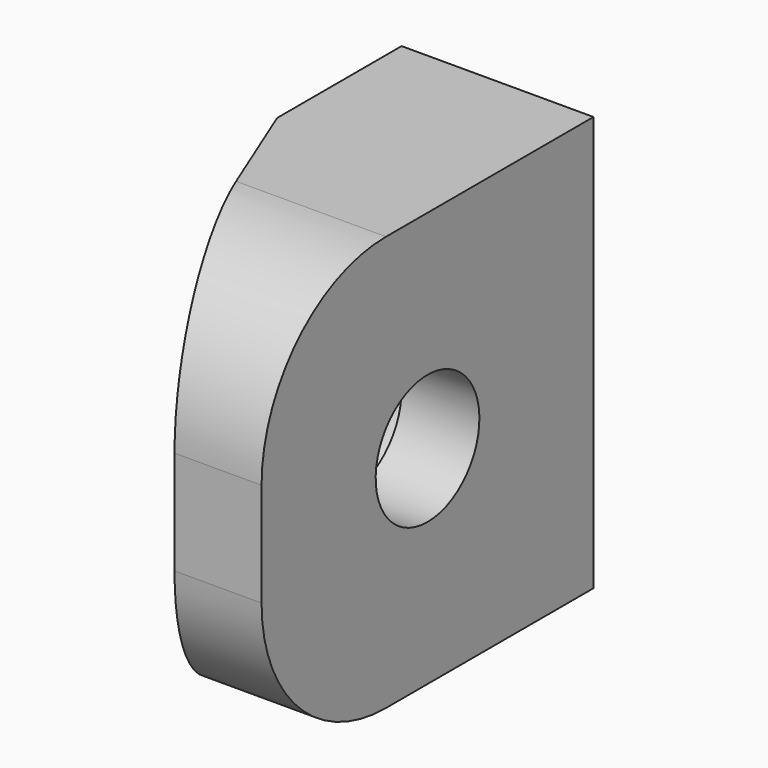
from build123d import *

# Parameters (mm, degrees)
PAD026_DEPTH            = 4
SKETCH054_R             = 3.25
POCKET017_DEPTH         = 3.5
SKETCH056_R             = 1.25
POCKET018_DEPTH         = 5
FILLET001_R             = 3
BODY041_PLACEMENT_ANGLE = 90


with BuildPart() as part:
    # Sketch052 → Pad026 (new body, symmetric)
    with BuildSketch(Plane.YZ.offset(-96)):
        Polygon((93, 26.9), (93.000001, 25.221294), (97.999998, 23.199999), (101.000002, 23.2), (101, 26.9), align=None)
    extrude(amount=PAD026_DEPTH, both=True)

    # Sketch054 (on Face5 of Pad026) → Pocket017 (cut)
    with BuildSketch(Plane(origin=(0, 0, 21.9), x_dir=(0, -1, 0), z_dir=(0, 0, 1))):
        with Locations((-97, -96)):
            Circle(SKETCH054_R)
    extrude(amount=POCKET017_DEPTH, mode=Mode.SUBTRACT)

    # Sketch056 → Pocket018 (cut)
    with BuildSketch(Plane.XY.offset(22)):
        with Locations((-96, 97)):
            Circle(SKETCH056_R)
    extrude(amount=POCKET018_DEPTH, mode=Mode.SUBTRACT)

    # Fillet001
    fillet001_edges = [part.edges().sort_by_distance(p)[0] for p in [
        (-92, 93.000001, 26.060647),
        (-100, 93.000001, 26.060647),
    ]]
    fillet(fillet001_edges, radius=FILLET001_R)


with BuildPart() as part_1:
    # Body041 placement: moved
    add(part.part.moved(Location((-70, 0, -81))).rotate(Axis((-70, 0, -81), (0, 1, 0)), BODY041_PLACEMENT_ANGLE))


with BuildPart() as part_2:
    # Body047 placement: moved
    add(part_1.part.moved(Location((192, 0, 0))))


solid = part_2.part
